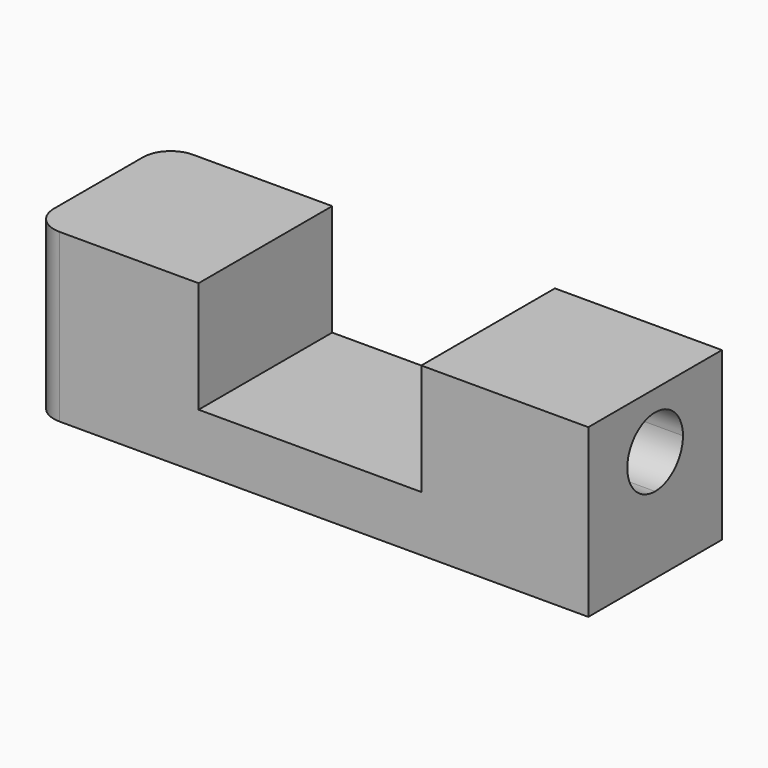
from build123d import *

# Parameters (mm, degrees)
F1_DEPTH = 60
F3_DEPTH = 60
F4_R     = 10


with BuildPart() as f1:
    # F0 (on Front) → F1 (new body)
    with BuildSketch(Plane.XZ):
        Polygon((0, 60), (0, 0), (200, 0), (200, 60), (140, 60), (140, 20), (60, 20), (60, 60), align=None)
    extrude(amount=F1_DEPTH)

    # F2 (on face) → F3 (cut)
    with BuildSketch(Plane.YZ.offset(200)):
        with BuildLine():
            Line((-30, 40), (-17.5, 40))
            ThreePointArc((-17.5, 40), (-21.1611652352, 48.8388347648), (-30, 52.5))
            Line((-30, 52.5), (-30, 40))
        make_face()
        with BuildLine():
            Line((-30, 40), (-30, 52.5))
            ThreePointArc((-30, 52.5), (-38.8388347648, 48.8388347648), (-42.5, 40))
            Line((-42.5, 40), (-30, 40))
        make_face()
        with BuildLine():
            ThreePointArc((-42.5, 40), (-38.8388347648, 31.1611652352), (-30, 27.5))
            Line((-30, 27.5), (-30, 40))
            Line((-30, 40), (-42.5, 40))
        make_face()
        with BuildLine():
            ThreePointArc((-30, 27.5), (-21.1611652352, 31.1611652352), (-17.5, 40))
            Line((-17.5, 40), (-30, 40))
            Line((-30, 40), (-30, 27.5))
        make_face()
    extrude(amount=-F3_DEPTH, mode=Mode.SUBTRACT)

    # F4
    f4_edges = [f1.edges().sort_by_distance(p)[0] for p in [
        (0, 0, 30),
        (0, -60, 30),
    ]]
    fillet(f4_edges, radius=F4_R)


solid = f1.part
